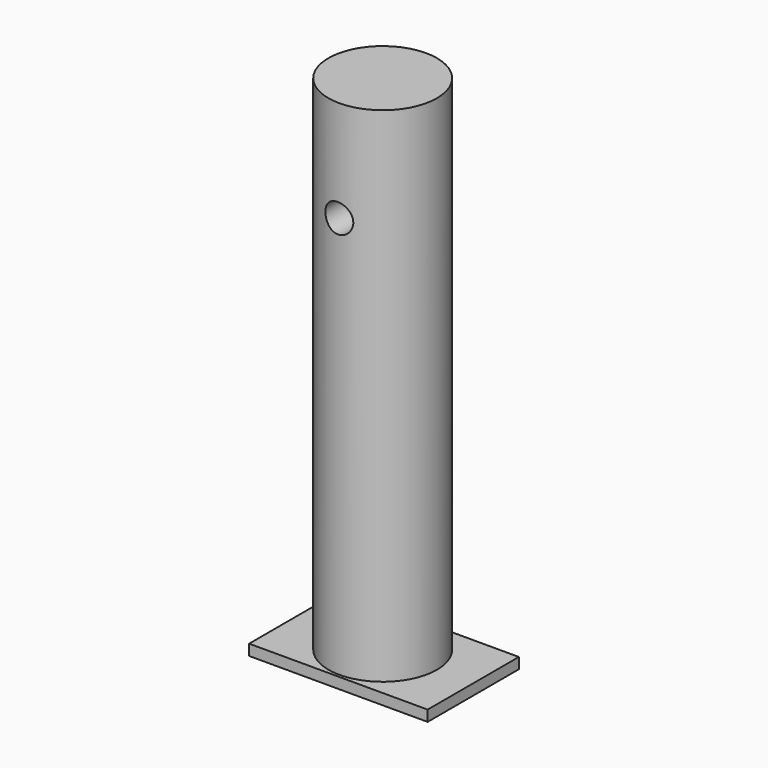
from build123d import *

# Parameters (mm, degrees)
F0_R     = 24.13
F1_DEPTH = 228.6
F2_R     = 6.35
F3_DEPTH = 66.294
F4_W     = 79.389766
F4_H     = 50.704014
F5_DEPTH = 4.826


with BuildPart() as f1:
    # F0 (on Top) → F1 (new body)
    with BuildSketch(Plane.XY):
        with Locations((-7.287733, 25.4)):
            Circle(F0_R)
    extrude(amount=F1_DEPTH)

    # F2 (on Front) → F3 (cut)
    with BuildSketch(Plane.XZ):
        with Locations((-7.949968, 183.391028)):
            Circle(F2_R)
    extrude(amount=-F3_DEPTH, mode=Mode.SUBTRACT)

    # F4 (on Top) → F5 (join)
    with BuildSketch(Plane.XY):
        with Locations((-6.667502, 25.352007)):
            Rectangle(F4_W, F4_H)
    extrude(amount=F5_DEPTH)


solid = f1.part
